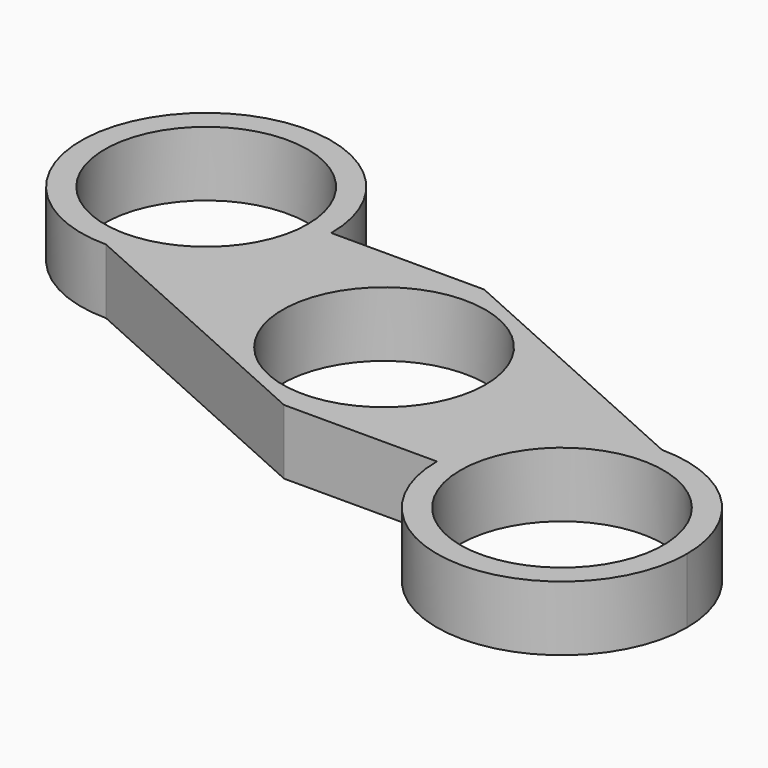
from build123d import *

# Parameters (mm, degrees)
F0_R     = 10.95
F1_DEPTH = 7


with BuildPart() as f1:
    # F0 (on Top) → F1 (new body)
    with BuildSketch(Plane.XY):
        with BuildLine():
            ThreePointArc((-30.5830737352, 25.0643221408), (-53.6290152813, 34.6102636868), (-44.0830737352, 11.5643221408))
            ThreePointArc((-44.0830737352, 11.5643221408), (-34.5371321892, 15.5183805948), (-30.5830737352, 25.0643221408))
        make_face()
        with Locations((-44.0830737352, 25.0643221408)):
            Circle(F0_R, mode=Mode.SUBTRACT)
        with BuildLine():
            Line((-44.0830737352, 11.5643221408), (-24.1870238392, 2.6110996876))
            ThreePointArc((-24.1870238392, 2.6110996876), (-26.3940140551, 17.1042452848), (-14.0830737352, 25.0643221408))
            Line((-14.0830737352, 25.0643221408), (-30.5830737352, 25.0643221408))
            ThreePointArc((-30.5830737352, 25.0643221408), (-34.5371321892, 15.5183805948), (-44.0830737352, 11.5643221408))
        make_face()
        with BuildLine():
            Line((-24.1870238392, 2.6110996876), (-14.0830737352, -1.9356778592))
            ThreePointArc((-14.0830737352, -1.9356778592), (-4.5371321892, 2.0183805948), (-0.5830737352, 11.5643221408))
            ThreePointArc((-0.5830737352, 11.5643221408), (-1.4606071299, 16.3521543014), (-3.9791236313, 20.517544594))
            Line((-3.9791236313, 20.517544594), (-14.0830737352, 25.0643221408))
            ThreePointArc((-14.0830737352, 25.0643221408), (-26.3940140551, 17.1042452848), (-24.1870238392, 2.6110996876))
        make_face()
        with Locations((-14.0830737352, 11.5643221408)):
            Circle(F0_R, mode=Mode.SUBTRACT)
        with BuildLine():
            ThreePointArc((-0.5830737352, 11.5643221408), (-4.5371321892, 2.0183805948), (-14.0830737352, -1.9356778592))
            Line((-14.0830737352, -1.9356778592), (2.4169262648, -1.9356778592))
            ThreePointArc((2.4169262648, -1.9356778592), (6.3709847187, 7.6102636868), (15.9169262648, 11.5643221408))
            Line((15.9169262648, 11.5643221408), (-3.9791236313, 20.517544594))
            ThreePointArc((-3.9791236313, 20.517544594), (-1.4606071299, 16.3521543014), (-0.5830737352, 11.5643221408))
        make_face()
        with BuildLine():
            ThreePointArc((15.9169262648, 11.5643221408), (6.3709847187, 7.6102636868), (2.4169262648, -1.9356778592))
            ThreePointArc((2.4169262648, -1.9356778592), (15.9169262648, -15.4356778592), (29.4169262648, -1.9356778592))
            ThreePointArc((29.4169262648, -1.9356778592), (25.4628678108, 7.6102636868), (15.9169262648, 11.5643221408))
        make_face()
        with BuildLine():
            ThreePointArc((26.8669262648, -1.9356778592), (15.9169262648, -12.8856778592), (4.9669262648, -1.9356778592))
            ThreePointArc((4.9669262648, -1.9356778592), (15.9169262648, 9.0143221408), (26.8669262648, -1.9356778592))
        make_face(mode=Mode.SUBTRACT)
    extrude(amount=F1_DEPTH)


solid = f1.part
